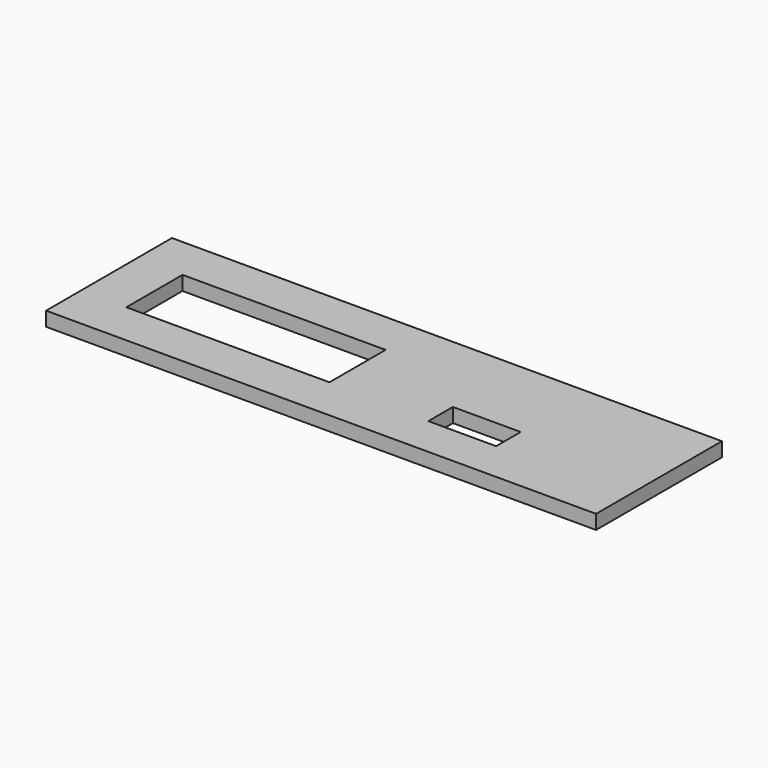
from build123d import *

# Parameters (mm, degrees)
F0_W     = 68.78
F0_H     = 19.67
F1_DEPTH = 1.78
F2_W     = 25.4
F2_H     = 8.776869
F3_DEPTH = 25.4
F4_W     = 8.480195
F4_H     = 3.840108
F5_DEPTH = 1.781


with BuildPart() as f1:
    # F0 (on Top) → F1 (new body)
    with BuildSketch(Plane.XY):
        with Locations((-34.39, 9.835)):
            Rectangle(F0_W, F0_H)
    extrude(amount=F1_DEPTH)

    # F2 (on face) → F3 (cut)
    with BuildSketch(Plane.XY.offset(1.78)):
        with Locations((-50.408047, 9.845546)):
            Rectangle(F2_W, F2_H)
    extrude(amount=-F3_DEPTH, mode=Mode.SUBTRACT)

    # F4 (on Top) → F5 (cut, through all)
    with BuildSketch(Plane.XY):
        with Locations((-20.799336, 6.992206)):
            Rectangle(F4_W, F4_H)
    extrude(amount=F5_DEPTH, mode=Mode.SUBTRACT)


solid = f1.part
